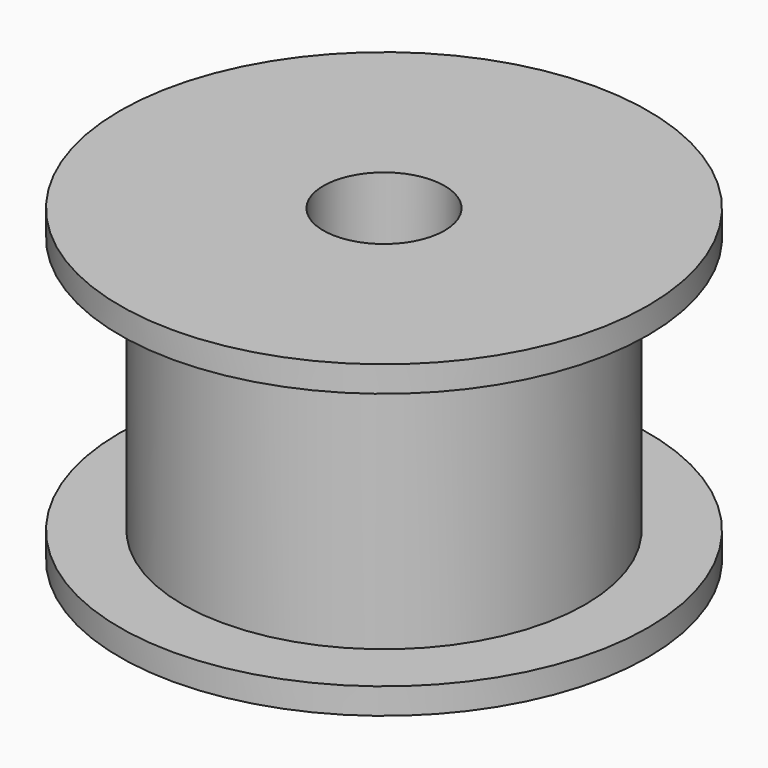
from build123d import *

# Parameters (mm, degrees)
F0_R          = 15.625
F0_R_2        = 5.715
F1_DEPTH      = 20
F2_R          = 5.715
F2_R_2        = 4.70576
F3_DEPTH      = 2.01848
F3_DEPTH_BACK = 22.01848
F4_R          = 20.5
F4_R_2        = 5.715
F5_DEPTH      = 2.01848
F6_R          = 20.5
F6_R_2        = 5.715
F7_DEPTH      = 2.01848


with BuildPart() as f1:
    # F0 (on Top) → F1 (new body)
    with BuildSketch(Plane.XY):
        Circle(F0_R)
        Circle(F0_R_2, mode=Mode.SUBTRACT)
    extrude(amount=F1_DEPTH)

    # F2 (on face) → F3 (join, two sides)
    with BuildSketch(Plane.XY.offset(20)) as f3_sk:
        Circle(F2_R)
        Circle(F2_R_2, mode=Mode.SUBTRACT)
    extrude(amount=F3_DEPTH)
    extrude(f3_sk.sketch, amount=-F3_DEPTH_BACK)

    # F4 (on face) → F5 (join)
    with BuildSketch(Plane.XY.offset(20)):
        Circle(F4_R)
        Circle(F4_R_2, mode=Mode.SUBTRACT)
    extrude(amount=F5_DEPTH)

    # F6 (on face) → F7 (join)
    with BuildSketch(Plane(origin=(0, 0, 0), x_dir=(1, 0, 0), z_dir=(0, 0, -1))):
        Circle(F6_R)
        Circle(F6_R_2, mode=Mode.SUBTRACT)
    extrude(amount=F7_DEPTH)


solid = f1.part
